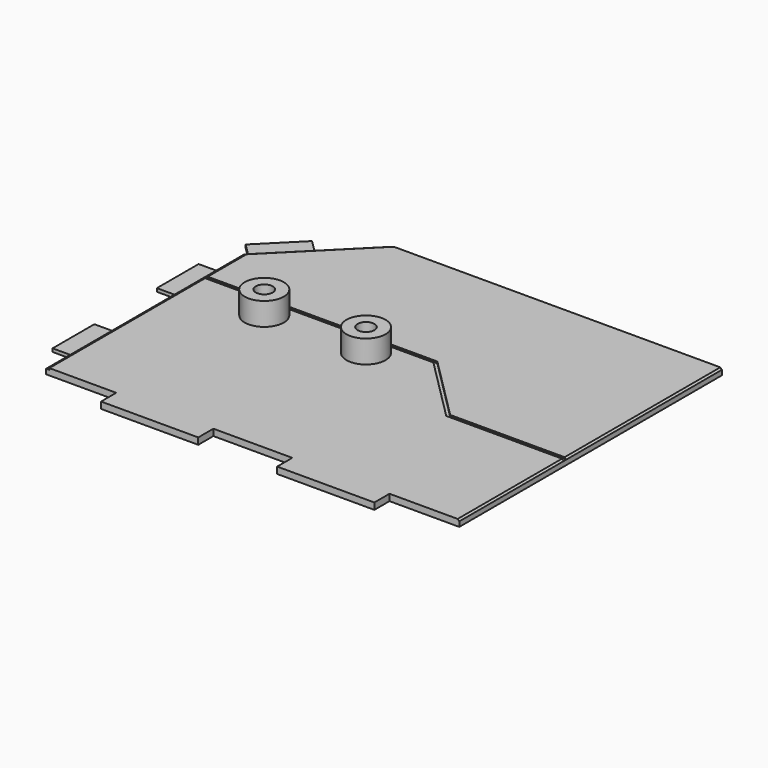
from build123d import *

# Parameters (mm, degrees)
PAD030_DEPTH    = 1
SKETCH049_W     = 8.1
SKETCH049_H     = 3.05
POCKET019_DEPTH = 0.5
POCKET020_DEPTH = 0.25
POCKET021_DEPTH = 0.25
CHAMFER008_SIZE = 0.25
SKETCH052_W     = 3
SKETCH052_H     = 8
PAD031_DEPTH    = 0.5
SKETCH053_R     = 3
SKETCH053_R_2   = 1.3
PAD032_DEPTH    = 3.5


with BuildPart() as part:
    # Sketch048 (on Face2 of Binder014) → Pad030 (new body)
    with BuildSketch(Plane(origin=(0, 0, -13), x_dir=(1, 0, 0), z_dir=(0, 0, -1))):
        Polygon((129, -5.333333), (129, 44.999997), (118.3, 44.999997), (118.3, 47.899997), (103.4, 47.899997), (103.4, 44.999997), (91.3, 44.999997), (91.3, 47.899997), (76.4, 47.899997), (76.4, 44.999997), (65.65, 44.999997), (65.65, 7.016667), (78, -5.333333), align=None)
    extrude(amount=-PAD030_DEPTH)

    # Sketch049 (on Face14 of Pad030) → Pocket019 (cut)
    with BuildSketch(Plane(origin=(0, 0, -13), x_dir=(1, 0, 0), z_dir=(0, 0, -1))):
        with Locations((92, -3.808333)):
            Rectangle(SKETCH049_W, SKETCH049_H)
        with Locations((115, -3.808333)):
            Rectangle(SKETCH049_W, SKETCH049_H)
    extrude(amount=-POCKET019_DEPTH, mode=Mode.SUBTRACT)

    # Sketch050 (on Face5 of Pocket019) → Pocket020 (cut)
    with BuildSketch(Plane.XY.offset(-12)):
        Polygon((78, 5.333333), (78.7071067812, 5.333333), (66.15, -7.2237737812), (66.15, -44.999997), (65.65, -44.999997), (65.65, -7.016667), align=None)
    extrude(amount=-POCKET020_DEPTH, mode=Mode.SUBTRACT)

    # Sketch051 (on Face5 of Pocket020) → Pocket021 (cut)
    with BuildSketch(Plane.XY.offset(-12)):
        Polygon((66.15, -14.649997), (101.3571067812, -14.649997), (111.2071067812, -24.499997), (129, -24.499997), (129, -24.999997), (111, -24.999997), (101.15, -15.149997), (66.15, -15.149997), align=None)
    extrude(amount=-POCKET021_DEPTH, mode=Mode.SUBTRACT)

    # Chamfer008
    chamfer008_edges = [part.edges().sort_by_distance(p)[0] for p in [
        (129, -9.583332, -12),
        (129, -34.999997, -12),
    ]]
    chamfer(chamfer008_edges, length=CHAMFER008_SIZE)

    # Sketch052 (on Face4 of Chamfer008) → Pad031 (join)
    with BuildSketch(Plane(origin=(0, 0, -13), x_dir=(1, 0, 0), z_dir=(0, 0, -1))):
        Polygon((66.0035533906, 6.6631136094), (71.6604076401, 1.0062593599), (69.5390872965, -1.1150609836), (63.882233047, 4.5417932658), align=None)
        with Locations((64.15, 16.016667)):
            Rectangle(SKETCH052_W, SKETCH052_H)
        with Locations((64.15, 35.999997)):
            Rectangle(SKETCH052_W, SKETCH052_H)
    extrude(amount=-PAD031_DEPTH)

    # Sketch053 (on Face7 of Pad031) → Pad032 (join)
    with BuildSketch(Plane.XY.offset(-12)):
        with Locations((77.7, -18.249997)):
            Circle(SKETCH053_R)
        with Locations((77.7, -18.249997)):
            Circle(SKETCH053_R_2, mode=Mode.SUBTRACT)
        with Locations((93.3, -18.249997)):
            Circle(SKETCH053_R)
        with Locations((93.3, -18.249997)):
            Circle(SKETCH053_R_2, mode=Mode.SUBTRACT)
    extrude(amount=PAD032_DEPTH)


solid = part.part
